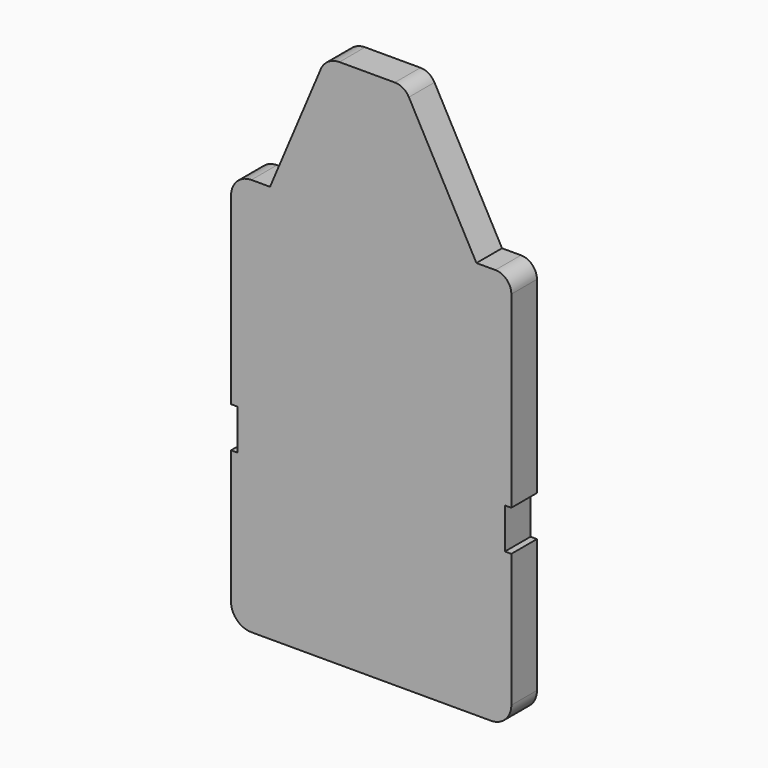
from build123d import *

# Parameters (mm, degrees)
F1_DEPTH = 10


with BuildPart() as f1:
    # F0 (on Front) → F1 (new body)
    with BuildSketch(Plane.XZ):
        with BuildLine():
            Line((6.51253, 105.134805), (0, 105.134805))
            Line((0, 105.134805), (-10.789488, 105.134805))
            ThreePointArc((-10.789488, 105.134805), (-14.298656, 104.077086), (-16.63878, 101.256299))
            Line((-16.63878, 101.256299), (-32.478897, 63.767443))
            Line((-32.478897, 63.767443), (-38.307014, 63.767443))
            ThreePointArc((-38.307014, 63.767443), (-42.797142, 61.907571), (-44.657014, 57.417443))
            Line((-44.657014, 57.417443), (-44.657014, 0))
            Line((-44.657014, 0), (-42.657014, 0))
            Line((-42.657014, 0), (-42.657014, -12.672931))
            Line((-42.657014, -12.672931), (-44.657014, -12.672931))
            Line((-44.657014, -12.672931), (-44.657014, -54.299037))
            ThreePointArc((-44.657014, -54.299037), (-42.797142, -58.789165), (-38.307014, -60.649037))
            Line((-38.307014, -60.649037), (0, -60.649037))
            Line((0, -60.649037), (36.564393, -60.649037))
            ThreePointArc((36.564393, -60.649037), (41.054521, -58.789165), (42.914393, -54.299037))
            Line((42.914393, -54.299037), (42.914393, -12.672931))
            Line((42.914393, -12.672931), (40.914393, -12.672931))
            Line((40.914393, -12.672931), (40.914393, 0))
            Line((40.914393, 0), (42.914393, 0))
            Line((42.914393, 0), (42.914393, 58.767443))
            ThreePointArc((42.914393, 58.767443), (41.449927, 62.302977), (37.914393, 63.767443))
            Line((37.914393, 63.767443), (32.005376, 63.767443))
            Line((32.005376, 63.767443), (10.90388, 102.52563))
            ThreePointArc((10.90388, 102.52563), (9.066535, 104.4333), (6.51253, 105.134805))
        make_face()
    extrude(amount=F1_DEPTH)


solid = f1.part
